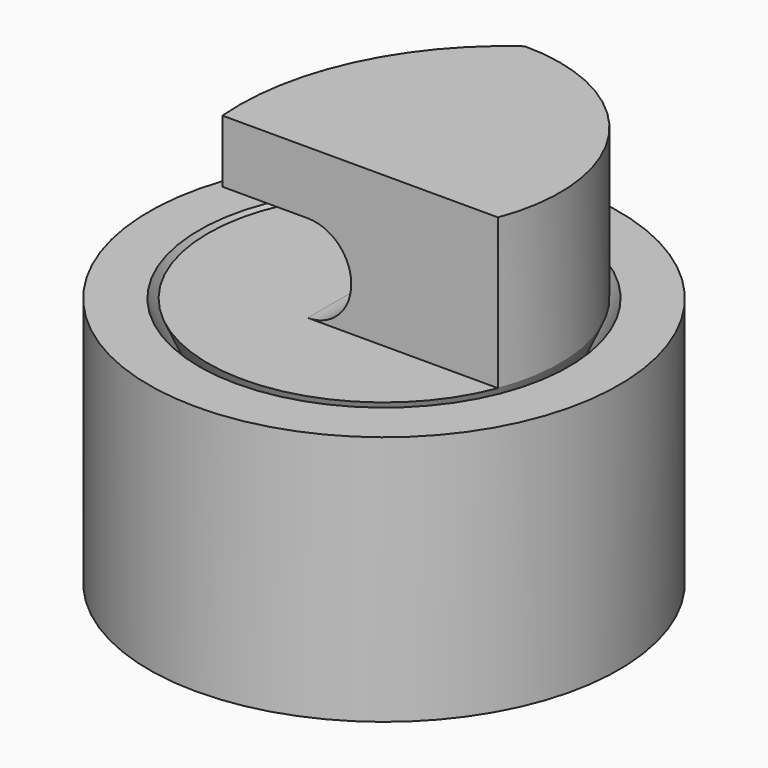
from build123d import *

# Parameters (mm, degrees)
PAD_DEPTH       = 6
POCKET_DEPTH    = 12
POCKET001_DEPTH = 9.5
POCKET002_DEPTH = 1.5
POCKET003_DEPTH = 1
POCKET003_TAPER = 45


with BuildPart() as body:
    # Sketch → Revolution (revolve)
    with BuildSketch(Plane.XZ):
        Polygon((0, 0), (-4.8, 0), (-7.026141, 5), (0, 5), align=None)
    revolution = revolve(axis=Axis((0, 0, 0), (0, 0, 1)))

    # Mirrored: Revolution across Sketch H_Axis
    add(revolution.mirror(Plane(origin=(0, 0, 0), x_dir=(0, -1, 0), z_dir=(0, 0, 1))))

    # Sketch001 (on Face2 of Mirrored) → Pad (new body)
    with BuildSketch(Plane(origin=(0, 0, 5), x_dir=(-1, 0, 0), z_dir=(0, 0, 1))):
        with BuildLine():
            ThreePointArc((-6.56085, 2.514341), (-5.789323, -3.981257), (4e-05, -7.026141))
            ThreePointArc((4e-05, -7.026141), (3.48134, -2.84298), (4.43915, 2.514341))
            Line((4.43915, 2.514341), (-6.56085, 2.514341))
        make_face()
    extrude(amount=PAD_DEPTH)

    # Sketch002 (on Face7 of Pad) → Pocket (cut)
    with BuildSketch(Plane.XZ.offset(2.514341)):
        with BuildLine():
            Line((-4.796278, 8.5), (-4.796278, 5))
            Line((-4.796278, 5), (-1.036278, 5))
            ThreePointArc((-1.036278, 5), (0.194088, 5.509634), (0.703722, 6.74))
            Line((0.703722, 6.74), (0.703722, 6.76))
            ThreePointArc((0.703722, 6.76), (0.194088, 7.990366), (-1.036278, 8.5))
            Line((-1.036278, 8.5), (-4.796278, 8.5))
        make_face()
    extrude(amount=-POCKET_DEPTH, mode=Mode.SUBTRACT)

    # Sketch003 → Pocket001 (cut, symmetric)
    with BuildSketch(Plane.YZ):
        with BuildLine():
            Line((-2.514341, 5), (-2.514341, 8.5))
            Line((-2.514341, 8.5), (-6.914341, 8.5))
            ThreePointArc((-6.914341, 8.5), (-7.267894, 8.353553), (-7.414341, 8))
            Line((-7.414341, 8), (-7.414341, 5.5))
            ThreePointArc((-7.414341, 5.5), (-7.267894, 5.146447), (-6.914341, 5))
            Line((-6.914341, 5), (-2.514341, 5))
        make_face()
    extrude(amount=POCKET001_DEPTH, both=True, mode=Mode.SUBTRACT)

    # Sketch004 (on Face10 of Pocket001) → Pocket002 (cut)
    with BuildSketch(Plane(origin=(0, 0, -5), x_dir=(1, 0, 0), z_dir=(0, 0, -1))):
        with BuildLine():
            ThreePointArc((-1, 5.68892), (-5.776141, 0), (-1, -5.68892))
            Line((-1, 5.68892), (-1, -5.68892))
        make_face()
        with BuildLine():
            Line((1, 5.68892), (1, -5.68892))
            ThreePointArc((1, -5.68892), (5.776141, 0), (1, 5.68892))
        make_face()
    extrude(amount=-POCKET002_DEPTH, mode=Mode.SUBTRACT)

    # Sketch005 (on Face19 of Pocket002) → Pocket003 (cut)
    with BuildSketch(Plane(origin=(0, 0, -3.5), x_dir=(1, 0, 0), z_dir=(0, 0, -1))):
        with BuildLine():
            ThreePointArc((-1, 5.68892), (-5.776141, 0), (-1, -5.68892))
            Line((-1, 5.68892), (-1, -5.68892))
        make_face()
        with BuildLine():
            Line((1, 5.68892), (1, -5.68892))
            ThreePointArc((1, -5.68892), (5.776141, 0), (1, 5.68892))
        make_face()
    extrude(amount=-POCKET003_DEPTH, taper=POCKET003_TAPER, mode=Mode.SUBTRACT)


with BuildPart() as body001:
    # Sketch006 → Revolution001 (revolve)
    with BuildSketch(Plane.YZ):
        Polygon((-5.15, 0), (-7.376141, 5), (-9.376141, 5), (-9.376141, 0), align=None)
    revolution001 = revolve(axis=Axis((0, 0, 0), (0, 0, 1)))

    # Mirrored001: Revolution001 across XY
    add(revolution001.mirror(Plane.XY))


solid = Compound([body.part, body001.part])
